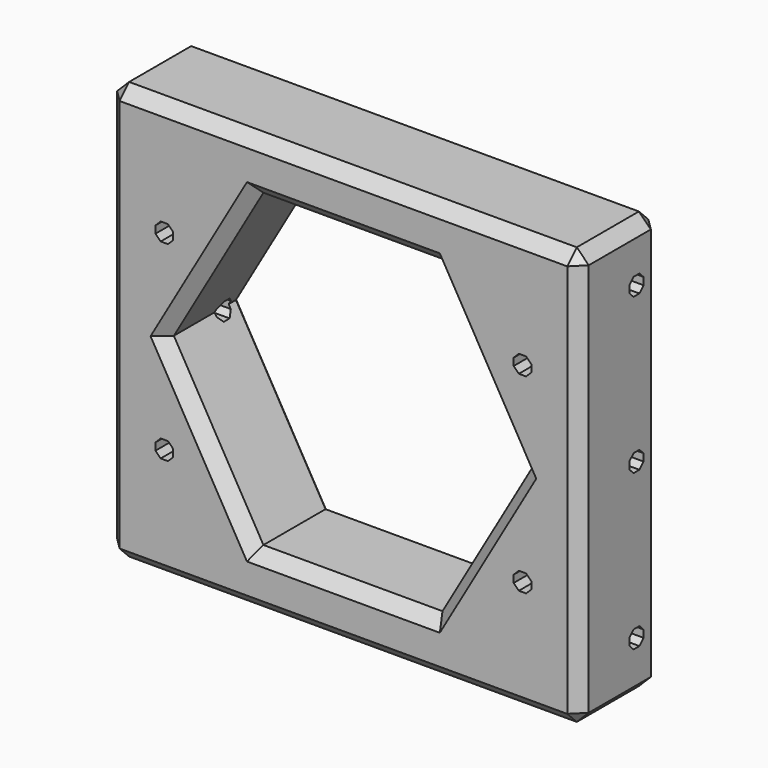
from build123d import *

# Parameters (mm, degrees)
SKETCH_W        = 39.5
SKETCH_H        = 35
PAD_DEPTH       = 8.5
POCKET_DEPTH    = 10
POCKET001_DEPTH = 10
POCKET002_DEPTH = 8.501
CHAMFER_SIZE    = 1
CHAMFER001_SIZE = 1


with BuildPart() as part:
    # Sketch → Pad (new body)
    with BuildSketch(Plane.XZ):
        with Locations((19.75, 17.5)):
            Rectangle(SKETCH_W, SKETCH_H)
    extrude(amount=PAD_DEPTH)

    # Sketch001 (on Face2 of Pad) → Pocket (cut)
    with BuildSketch(Plane(origin=(39.5, 0, 0), x_dir=(0, 0, 1), z_dir=(1, 0, 0))):
        Polygon((4.193853, 3.239104), (3.760896, 2.806147), (3.760896, 2.193853), (4.193853, 1.760896), (4.806147, 1.760896), (5.239104, 2.193853), (5.239104, 2.806147), (4.806147, 3.239104), align=None)
        Polygon((17.193853, 3.239104), (16.760896, 2.806147), (16.760896, 2.193853), (17.193853, 1.760896), (17.806147, 1.760896), (18.239104, 2.193853), (18.239104, 2.806147), (17.806147, 3.239104), align=None)
        Polygon((30.193853, 3.239104), (29.760896, 2.806147), (29.760896, 2.193853), (30.193853, 1.760896), (30.806147, 1.760896), (31.239104, 2.193853), (31.239104, 2.806147), (30.806147, 3.239104), align=None)
    extrude(amount=-POCKET_DEPTH, mode=Mode.SUBTRACT)

    # Sketch003 (on Face2 of Pocket) → Pocket001 (cut)
    with BuildSketch(Plane(origin=(0, 0, 0), x_dir=(0, 0, -1), z_dir=(-1, 0, 0))):
        Polygon((-30.806147, 3.239104), (-31.239104, 2.806147), (-31.239104, 2.193853), (-30.806147, 1.760896), (-30.193853, 1.760896), (-29.760896, 2.193853), (-29.760896, 2.806147), (-30.193853, 3.239104), align=None)
        Polygon((-17.806147, 3.239104), (-18.239104, 2.806147), (-18.239104, 2.193853), (-17.806147, 1.760896), (-17.193853, 1.760896), (-16.760896, 2.193853), (-16.760896, 2.806147), (-17.193853, 3.239104), align=None)
        Polygon((-4.806147, 3.239104), (-5.239104, 2.806147), (-5.239104, 2.193853), (-4.806147, 1.760896), (-4.193853, 1.760896), (-3.760896, 2.193853), (-3.760896, 2.806147), (-4.193853, 3.239104), align=None)
    extrude(amount=-POCKET001_DEPTH, mode=Mode.SUBTRACT)

    # Sketch004 (on Face5 of Pocket001) → Pocket002 (cut, through all)
    with BuildSketch(Plane.XZ.offset(8.5)):
        Polygon((4.443853, 26.239104), (4.010896, 25.806147), (4.010896, 25.193853), (4.443853, 24.760896), (5.056147, 24.760896), (5.489104, 25.193853), (5.489104, 25.806147), (5.056147, 26.239104), align=None)
        Polygon((34.443853, 26.239104), (34.010896, 25.806147), (34.010896, 25.193853), (34.443853, 24.760896), (35.056147, 24.760896), (35.489104, 25.193853), (35.489104, 25.806147), (35.056147, 26.239104), align=None)
        Polygon((34.443853, 10.239104), (34.010896, 9.806147), (34.010896, 9.193853), (34.443853, 8.760896), (35.056147, 8.760896), (35.489104, 9.193853), (35.489104, 9.806147), (35.056147, 10.239104), align=None)
        Polygon((4.443853, 10.239104), (4.010896, 9.806147), (4.010896, 9.193853), (4.443853, 8.760896), (5.056147, 8.760896), (5.489104, 9.193853), (5.489104, 9.806147), (5.056147, 10.239104), align=None)
        Polygon((12.25, 4.509619), (27.25, 4.509619), (34.75, 17.5), (27.25, 30.490381), (12.25, 30.490381), (4.75, 17.5), align=None)
    extrude(amount=-POCKET002_DEPTH, mode=Mode.SUBTRACT)

    # Chamfer
    chamfer_edges = [part.edges().sort_by_distance(p)[0] for p in [
        (39.5, -4.25, 35),
        (0, -4.25, 35),
        (0, -4.25, 0),
        (39.5, -4.25, 0),
        (39.5, -8.5, 17.5),
        (19.75, -8.5, 0),
        (19.75, 0, 0),
        (39.5, 0, 17.5),
        (0, 0, 17.5),
        (0, -8.5, 17.5),
        (19.75, -8.5, 35),
        (19.75, 0, 35),
    ]]
    chamfer(chamfer_edges, length=CHAMFER_SIZE)

    # Chamfer001
    chamfer001_edges = [part.edges().sort_by_distance(p)[0] for p in [
        (31, -8.5, 11.004809),
        (19.75, -8.5, 4.509619),
        (31, -8.5, 23.995191),
        (19.75, -8.5, 30.490381),
        (8.5, -8.5, 23.995191),
        (8.5, -8.5, 11.004809),
        (8.5, 0, 23.995191),
        (19.75, 0, 30.490381),
        (31, 0, 23.995191),
        (31, 0, 11.004809),
        (19.75, 0, 4.509619),
        (8.5, 0, 11.004809),
    ]]
    chamfer(chamfer001_edges, length=CHAMFER001_SIZE)


solid = part.part
